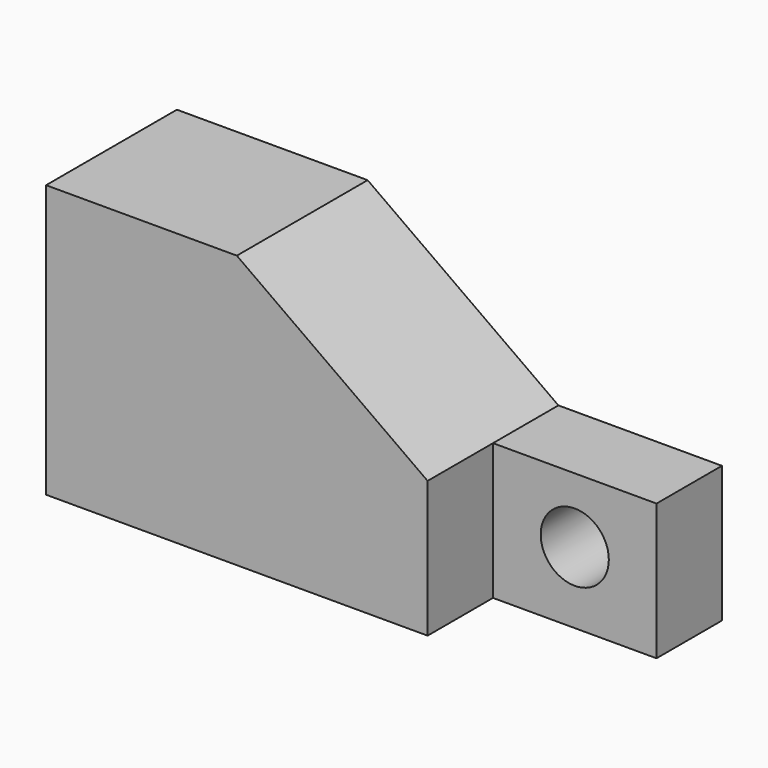
from build123d import *

# Parameters (mm, degrees)
F1_DEPTH = 38.1
F0_R     = 7.9375
F2_DEPTH = 19.05


with BuildPart() as f1:
    # F0 (on Front) → F1 (new body)
    with BuildSketch(Plane.XZ):
        Polygon((-53.922951, 23.130657), (-53.922951, -40.369343), (34.977049, -40.369343), (34.977049, -8.619343), (-9.472951, 23.130657), align=None)
    extrude(amount=F1_DEPTH)

    # F0 (on Front) → F2 (join)
    with BuildSketch(Plane.XZ):
        Polygon((34.977049, -8.619343), (34.977049, -40.369343), (73.077049, -40.369343), (73.077049, -8.619343), (54.027049, -8.619343), align=None)
        with Locations((54.027049, -23.755247)):
            Circle(F0_R, mode=Mode.SUBTRACT)
    extrude(amount=F2_DEPTH)


solid = f1.part
